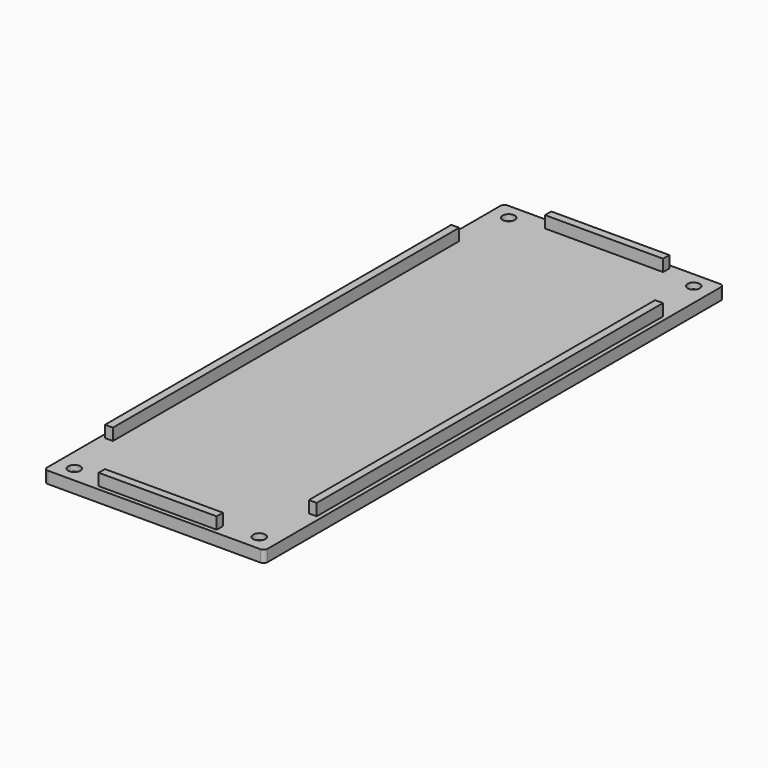
from build123d import *

# Parameters (mm, degrees)
SKETCH_W      = 56
SKETCH_H      = 146
PAD_DEPTH     = 3
SKETCH001_W   = 2
SKETCH001_H   = 110
SKETCH001_W_2 = 30
SKETCH001_H_2 = 2
PAD001_DEPTH  = 3
SKETCH002_R   = 1.55
POCKET_DEPTH  = 3
CHAMFER_SIZE  = 1.5
FILLET_R      = 1


with BuildPart() as part:
    # Sketch → Pad (new body)
    with BuildSketch(Plane.XY):
        Rectangle(SKETCH_W, SKETCH_H)
    extrude(amount=PAD_DEPTH)

    # Sketch001 (on Face6 of Pad) → Pad001 (join)
    with BuildSketch(Plane.XY.offset(3)):
        with Locations((-25.9, 0)):
            Rectangle(SKETCH001_W, SKETCH001_H)
        with Locations((25.9, 0)):
            Rectangle(SKETCH001_W, SKETCH001_H)
        with Locations((0, 70.9)):
            Rectangle(SKETCH001_W_2, SKETCH001_H_2)
        with Locations((0, -70.9)):
            Rectangle(SKETCH001_W_2, SKETCH001_H_2)
    extrude(amount=PAD001_DEPTH)

    # Sketch002 (on Face4 of Pad001) → Pocket (cut)
    with BuildSketch(Plane(origin=(0, 0, 0), x_dir=(1, 0, 0), z_dir=(0, 0, -1))):
        with Locations((-23.5, 69)):
            Circle(SKETCH002_R)
        with Locations((23.5, 69)):
            Circle(SKETCH002_R)
        with Locations((-23.5, -69)):
            Circle(SKETCH002_R)
        with Locations((23.5, -69)):
            Circle(SKETCH002_R)
    extrude(amount=-POCKET_DEPTH, mode=Mode.SUBTRACT)

    # Chamfer
    chamfer_edges = [part.edges().sort_by_distance(p)[0] for p in [
        (-25.05, -69, 0),
        (21.95, -69, 0),
        (-25.05, 69, 0),
        (21.95, 69, 0),
    ]]
    chamfer(chamfer_edges, length=CHAMFER_SIZE)

    # Fillet
    fillet_edges = [part.edges().sort_by_distance(p)[0] for p in [
        (-28, -73, 1.5),
        (28, -73, 1.5),
        (-28, 73, 1.5),
        (28, 73, 1.5),
    ]]
    fillet(fillet_edges, radius=FILLET_R)


solid = part.part
